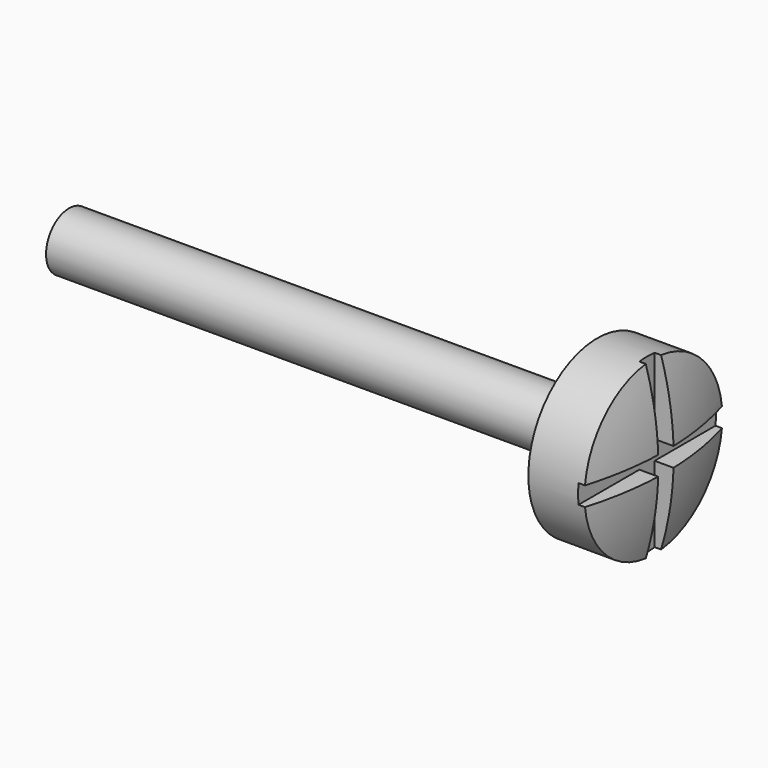
from build123d import *

# Parameters (mm, degrees)
F4_DEPTH = 0.5


with BuildPart() as f1:
    # F0 (on Top) → F1 (revolve)
    with BuildSketch(Plane.XY):
        with BuildLine():
            Line((-7.8, 0.75), (-7.8, 0))
            Line((-7.8, 0), (7.8, 0))
            ThreePointArc((7.8, 0), (7.716663, 1.13715), (7.468434, 2.25))
            Line((7.468434, 2.25), (6, 2.25))
            Line((6, 2.25), (6, 0.75))
            Line((6, 0.75), (-7.8, 0.75))
        make_face()
    revolve(axis=Axis((1.529716, 0, 0), (1, 0, 0)))

    # F3 (on offset) → F4 (cut)
    with BuildSketch(Plane.YZ.offset(7.8)):
        Polygon((0.25, 0.25), (0.25, 2.25), (-0.25, 2.25), (-0.25, 0.25), (-2.25, 0.25), (-2.25, -0.25), (-0.25, -0.25), (-0.25, -2.25), (0.25, -2.25), (0.25, -0.25), (2.25, -0.25), (2.25, 0.25), align=None)
    extrude(amount=-F4_DEPTH, mode=Mode.SUBTRACT)


solid = f1.part
